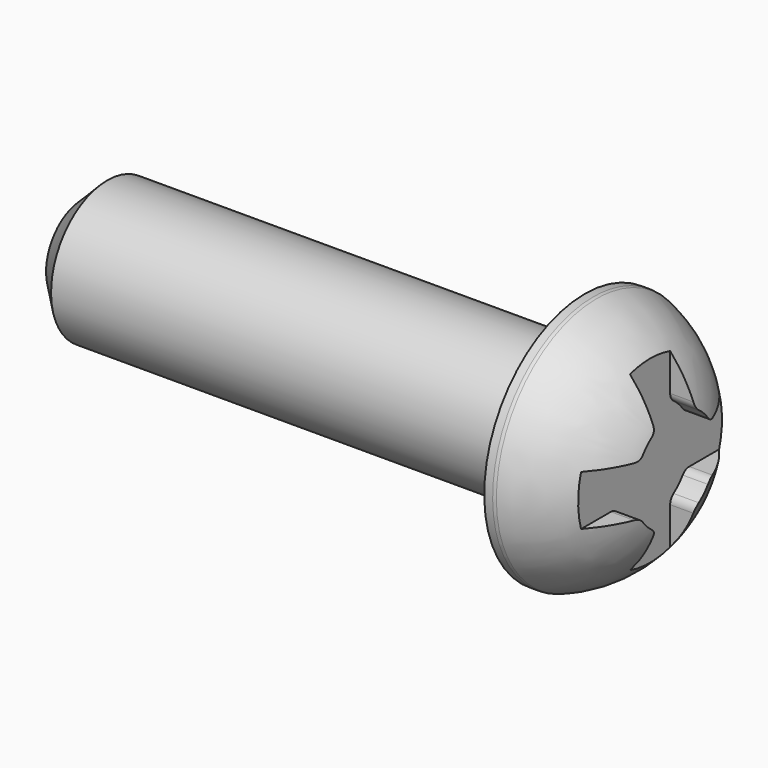
from build123d import *

# Parameters (mm, degrees)
F2_SIZE  = 0.5
F5_DEPTH = 1.7
F6_R     = 0.2
F7_R     = 0.2


with BuildPart() as f1:
    # F0 (on Front) → F1 (revolve)
    with BuildSketch(Plane.XZ):
        with BuildLine():
            Line((0, 2.5), (0, 1.4))
            Line((0, 1.4), (-10, 1.4))
            Line((-10, 1.4), (-10, 0))
            Line((-10, 0), (2, 0))
            ThreePointArc((2, 0), (1.503184, 1.540292), (0.2, 2.5))
            Line((0.2, 2.5), (0, 2.5))
        make_face()
    revolve(axis=Axis((16.213503, 0, 0), (1, 0, 0)))

    # F2
    f2_edges = [f1.edges().sort_by_distance(p)[0] for p in [
        (-10, 0, -1.4),
    ]]
    chamfer(f2_edges, length=F2_SIZE)

    # F4 (on offset) → F5 (cut)
    with BuildSketch(Plane.YZ.offset(3)):
        with BuildLine():
            Line((0.5, 3), (0, 3))
            Line((0, 3), (-0.5, 3))
            Line((-0.5, 3), (-0.5, 0.866025))
            ThreePointArc((-0.5, 0.866025), (-0.707107, 0.707107), (-0.866025, 0.5))
            Line((-0.866025, 0.5), (-3, 0.5))
            Line((-3, 0.5), (-3, 0))
            Line((-3, 0), (-3, -0.5))
            Line((-3, -0.5), (-0.866025, -0.5))
            ThreePointArc((-0.866025, -0.5), (-0.707107, -0.707107), (-0.5, -0.866025))
            Line((-0.5, -0.866025), (-0.5, -3))
            Line((-0.5, -3), (0, -3))
            Line((0, -3), (0.5, -3))
            Line((0.5, -3), (0.5, -0.866025))
            ThreePointArc((0.5, -0.866025), (0.707107, -0.707107), (0.866025, -0.5))
            Line((0.866025, -0.5), (3, -0.5))
            Line((3, -0.5), (3, 0))
            Line((3, 0), (3, 0.5))
            Line((3, 0.5), (0.866025, 0.5))
            ThreePointArc((0.866025, 0.5), (0.707107, 0.707107), (0.5, 0.866025))
            Line((0.5, 0.866025), (0.5, 3))
        make_face()
    extrude(amount=-F5_DEPTH, mode=Mode.SUBTRACT)

    # F6
    f6_edges = [f1.edges().sort_by_distance(p)[0] for p in [
        (1.551481, 0.5, 0.866025),
        (1.551481, 0.866025, 0.5),
        (1.551481, 0.866025, -0.5),
        (1.551481, 0.5, -0.866025),
        (1.551481, -0.866025, 0.5),
        (1.551481, -0.5, 0.866025),
        (1.551481, -0.5, -0.866025),
        (1.551481, -0.866025, -0.5),
    ]]
    fillet(f6_edges, radius=F6_R)

    # F7
    f7_edges = [f1.edges().sort_by_distance(p)[0] for p in [
        (0.2, 0, -2.5),
    ]]
    fillet(f7_edges, radius=F7_R)


solid = f1.part
